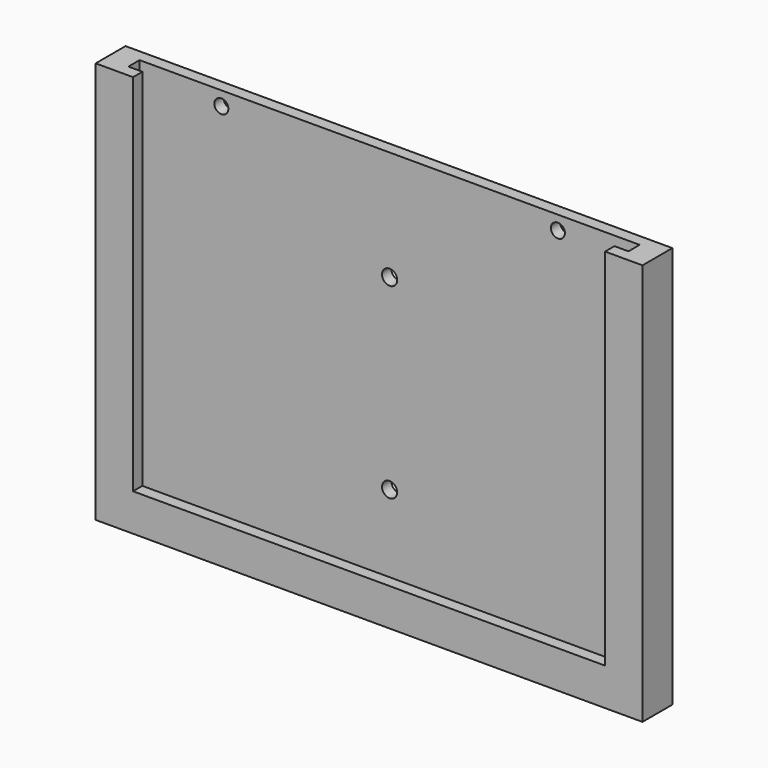
from build123d import *

# Parameters (mm, degrees)
F0_W     = 214
F0_H     = 5
F0_W_2   = 202
F0_W_3   = 10
F0_H_2   = 6
F0_W_4   = 6
F1_DEPTH = 10
F2_DEPTH = 162
F3_DEPTH = 6
F4_R     = 3.25
F4_R_2   = 3
F5_DEPTH = 25


with BuildPart() as f1:
    # F0 (on Top) → F1 (new body)
    with BuildSketch(Plane.XY):
        Polygon((107, 3), (-107, 3), (-107, -3), (-101, -3), (101, -3), (107, -3), align=None)
        with Locations((0, 5.5)):
            Rectangle(F0_W, F0_H)
        with Locations((0, -5.5)):
            Rectangle(F0_W_2, F0_H)
        with Locations((-112, 0)):
            Rectangle(F0_W_3, F0_H_2)
        with Locations((-112, 5.5)):
            Rectangle(F0_W_3, F0_H)
        with Locations((-112, -5.5)):
            Rectangle(F0_W_3, F0_H)
        with Locations((-104, -5.5)):
            Rectangle(F0_W_4, F0_H)
        with Locations((112, 0)):
            Rectangle(F0_W_3, F0_H_2)
        with Locations((112, 5.5)):
            Rectangle(F0_W_3, F0_H)
        with Locations((104, -5.5)):
            Rectangle(F0_W_4, F0_H)
        with Locations((112, -5.5)):
            Rectangle(F0_W_3, F0_H)
    extrude(amount=-F1_DEPTH)

    # F0 (on Top) → F2 (join)
    with BuildSketch(Plane.XY):
        with Locations((0, 5.5)):
            Rectangle(F0_W, F0_H)
        with Locations((-112, 5.5)):
            Rectangle(F0_W_3, F0_H)
        with Locations((-112, 0)):
            Rectangle(F0_W_3, F0_H_2)
        with Locations((-112, -5.5)):
            Rectangle(F0_W_3, F0_H)
        with Locations((112, 5.5)):
            Rectangle(F0_W_3, F0_H)
        with Locations((112, 0)):
            Rectangle(F0_W_3, F0_H_2)
        with Locations((112, -5.5)):
            Rectangle(F0_W_3, F0_H)
        with Locations((104, -5.5)):
            Rectangle(F0_W_4, F0_H)
        with Locations((-104, -5.5)):
            Rectangle(F0_W_4, F0_H)
    extrude(amount=F2_DEPTH)

    # F0 (on Top) → F3 (join)
    with BuildSketch(Plane.XY):
        with Locations((0, -5.5)):
            Rectangle(F0_W_2, F0_H)
    extrude(amount=F3_DEPTH)

    # F4 (on face) → F5 (cut)
    with BuildSketch(Plane.XZ.offset(-3)):
        with Locations((0, 115)):
            Circle(F4_R)
        with Locations((72, 156)):
            Circle(F4_R_2)
        with Locations((0, 35)):
            Circle(F4_R)
        with Locations((-72, 156)):
            Circle(F4_R_2)
    extrude(amount=-F5_DEPTH, mode=Mode.SUBTRACT)


solid = f1.part
